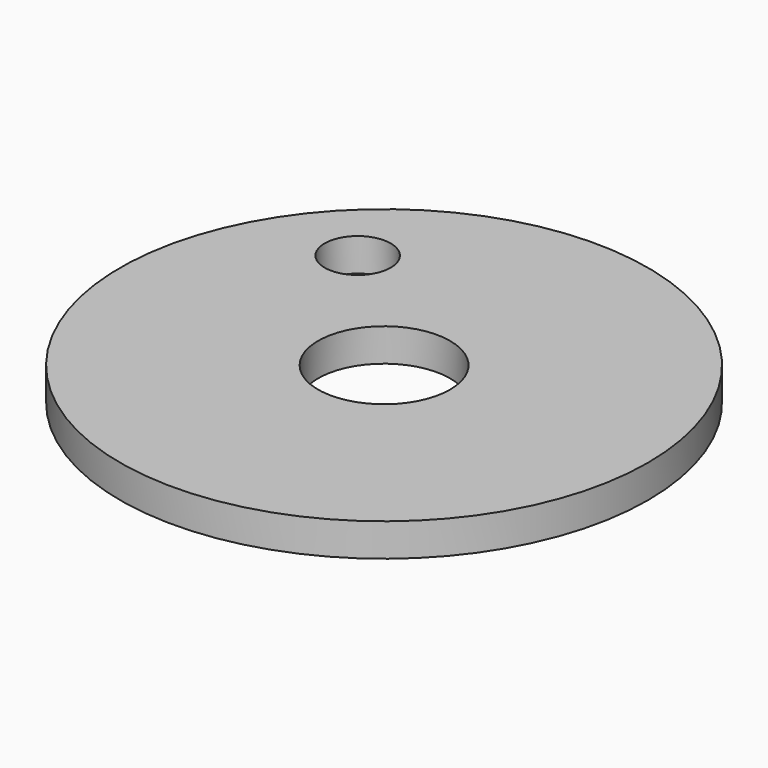
from build123d import *

# Parameters (mm, degrees)
F0_R     = 50.8
F0_R_2   = 12.7
F1_DEPTH = 6.35
F2_R     = 6.35
F3_DEPTH = 6.351


with BuildPart() as f1:
    # F0 (on Top) → F1 (new body)
    with BuildSketch(Plane.XY):
        Circle(F0_R)
        Circle(F0_R_2, mode=Mode.SUBTRACT)
    extrude(amount=F1_DEPTH)

    # F2 (on face) → F3 (cut, through all)
    with BuildSketch(Plane.XY.offset(6.35)):
        with Locations((-25.4, 25.4)):
            Circle(F2_R)
    extrude(amount=-F3_DEPTH, mode=Mode.SUBTRACT)


solid = f1.part
